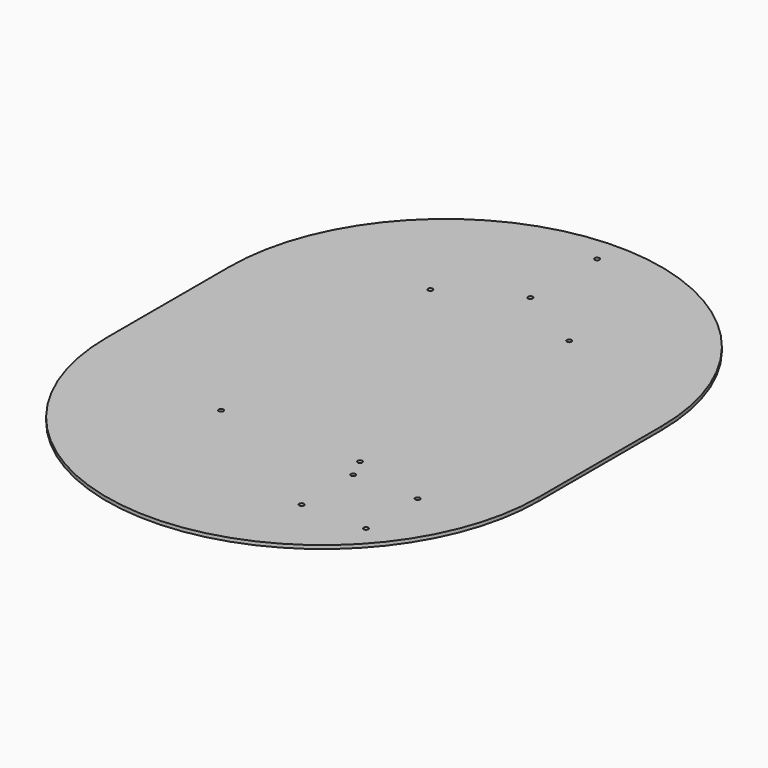
from build123d import *

# Parameters (mm, degrees)
F0_R     = 2.15265
F1_DEPTH = 3.175


with BuildPart() as f1:
    # F0 (on Top) → F1 (new body)
    with BuildSketch(Plane.XY):
        with BuildLine():
            ThreePointArc((393.7, 0), (196.85, 196.85), (0, 0))
            Line((0, 0), (0, -139.7))
            ThreePointArc((0, -139.7), (196.85, -336.55), (393.7, -139.7))
            Line((393.7, -139.7), (393.7, 0))
        make_face()
        with Locations((133.547731, -176.317746)):
            Circle(F0_R, mode=Mode.SUBTRACT)
        with Locations((269.08125, -254)):
            Circle(F0_R, mode=Mode.SUBTRACT)
        with Locations((327.81875, -254)):
            Circle(F0_R, mode=Mode.SUBTRACT)
        with Locations((269.08125, -195.2625)):
            Circle(F0_R, mode=Mode.SUBTRACT)
        with Locations((260.152269, -176.317746)):
            Circle(F0_R, mode=Mode.SUBTRACT)
        with Locations((327.81875, -195.2625)):
            Circle(F0_R, mode=Mode.SUBTRACT)
        with Locations((133.547731, 62.017746)):
            Circle(F0_R, mode=Mode.SUBTRACT)
        with Locations((260.152269, 62.017746)):
            Circle(F0_R, mode=Mode.SUBTRACT)
        with Locations((196.85, 96.8375)):
            Circle(F0_R, mode=Mode.SUBTRACT)
        with Locations((196.85, 173.0375)):
            Circle(F0_R, mode=Mode.SUBTRACT)
    extrude(amount=F1_DEPTH)


solid = f1.part
